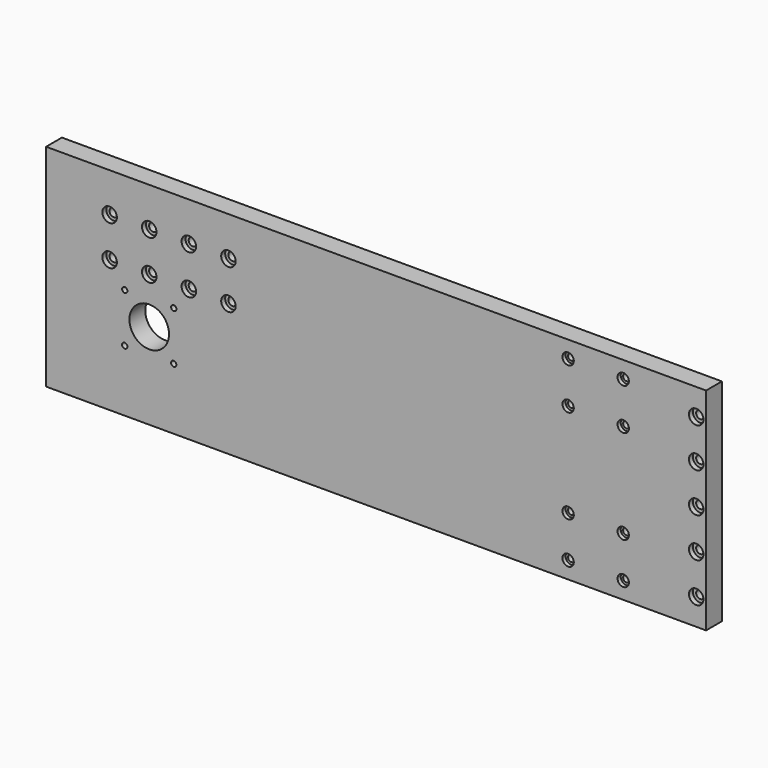
from build123d import *

# Parameters (mm, degrees)
F0_W      = 635
F0_H      = 203.2
F1_DEPTH  = 19.05
F2_R      = 3.99923
F3_DEPTH  = 19.051
F4_R      = 19.05
F4_R_2    = 2.54
F5_DEPTH  = 19.051
F6_R      = 3.175
F7_DEPTH  = 19.051
F8_R      = 3.8735
F9_DEPTH  = 19.051
F10_R     = 6.985
F11_DEPTH = 4.826
F12_R     = 5.461
F13_DEPTH = 3.81


with BuildPart() as f1:
    # F0 (on Front) → F1 (new body)
    with BuildSketch(Plane.XZ):
        Rectangle(F0_W, F0_H)
    extrude(amount=F1_DEPTH)

    # F2 (on face) → F3 (cut, through all)
    with BuildSketch(Plane.XZ.offset(19.05)):
        with Locations((-256.3622, 63.8302)):
            Circle(F2_R)
        with Locations((-218.2622, 63.8302)):
            Circle(F2_R)
        with Locations((-180.1622, 63.8302)):
            Circle(F2_R)
        with Locations((-142.0622, 63.8302)):
            Circle(F2_R)
        with Locations((-142.0622, 25.7302)):
            Circle(F2_R)
        with Locations((-180.1622, 25.7302)):
            Circle(F2_R)
        with Locations((-218.2622, 25.7302)):
            Circle(F2_R)
        with Locations((-256.3622, 25.7302)):
            Circle(F2_R)
    extrude(amount=-F3_DEPTH, mode=Mode.SUBTRACT)

    # F4 (on face) → F5 (cut, through all)
    with BuildSketch(Plane.XZ.offset(19.05)):
        with Locations((-218.2622, -18.7198)):
            Circle(F4_R)
        with Locations((-241.8334, 4.8514)):
            Circle(F4_R_2)
        with Locations((-194.691, 4.8514)):
            Circle(F4_R_2)
        with Locations((-194.691, -42.291)):
            Circle(F4_R_2)
        with Locations((-241.8334, -42.291)):
            Circle(F4_R_2)
    extrude(amount=-F5_DEPTH, mode=Mode.SUBTRACT)

    # F6 (on face) → F7 (cut, through all)
    with BuildSketch(Plane.XZ.offset(19.05)):
        with Locations((184.7596, 85.2678)):
            Circle(F6_R)
        with Locations((237.7694, 85.2678)):
            Circle(F6_R)
        with Locations((184.7596, 45.2628)):
            Circle(F6_R)
        with Locations((237.7694, 45.2628)):
            Circle(F6_R)
        with Locations((184.7596, -45.2628)):
            Circle(F6_R)
        with Locations((237.7694, -45.2628)):
            Circle(F6_R)
        with Locations((184.7596, -85.2678)):
            Circle(F6_R)
        with Locations((237.7694, -85.2678)):
            Circle(F6_R)
    extrude(amount=-F7_DEPTH, mode=Mode.SUBTRACT)

    # F8 (on face) → F9 (cut, through all)
    with BuildSketch(Plane.XZ.offset(19.05)):
        with Locations((307.975, 76.2)):
            Circle(F8_R)
        with Locations((307.975, 38.1)):
            Circle(F8_R)
        with Locations((307.975, 0)):
            Circle(F8_R)
        with Locations((307.975, -38.1)):
            Circle(F8_R)
        with Locations((307.975, -76.2)):
            Circle(F8_R)
    extrude(amount=-F9_DEPTH, mode=Mode.SUBTRACT)

    # F10 (on face) → F11 (cut)
    with BuildSketch(Plane.XZ.offset(19.05)):
        with Locations((-256.3622, 63.8302)):
            Circle(F10_R)
        with Locations((-256.3622, 25.7302)):
            Circle(F10_R)
        with Locations((-218.2622, 25.7302)):
            Circle(F10_R)
        with Locations((-218.2622, 63.8302)):
            Circle(F10_R)
        with Locations((-180.1622, 63.8302)):
            Circle(F10_R)
        with Locations((-142.0622, 63.8302)):
            Circle(F10_R)
        with Locations((-180.1622, 25.7302)):
            Circle(F10_R)
        with Locations((-142.0622, 25.7302)):
            Circle(F10_R)
        with Locations((307.975, -76.2)):
            Circle(F10_R)
        with Locations((307.975, -38.1)):
            Circle(F10_R)
        with Locations((307.975, 0)):
            Circle(F10_R)
        with Locations((307.975, 38.1)):
            Circle(F10_R)
        with Locations((307.975, 76.2)):
            Circle(F10_R)
    extrude(amount=-F11_DEPTH, mode=Mode.SUBTRACT)

    # F12 (on face) → F13 (cut)
    with BuildSketch(Plane.XZ.offset(19.05)):
        with Locations((184.7596, 85.2678)):
            Circle(F12_R)
        with Locations((184.7596, 45.2628)):
            Circle(F12_R)
        with Locations((184.7596, -45.2628)):
            Circle(F12_R)
        with Locations((184.7596, -85.2678)):
            Circle(F12_R)
        with Locations((237.7694, -85.2678)):
            Circle(F12_R)
        with Locations((237.7694, -45.2628)):
            Circle(F12_R)
        with Locations((237.7694, 45.2628)):
            Circle(F12_R)
        with Locations((237.7694, 85.2678)):
            Circle(F12_R)
    extrude(amount=-F13_DEPTH, mode=Mode.SUBTRACT)


solid = f1.part
